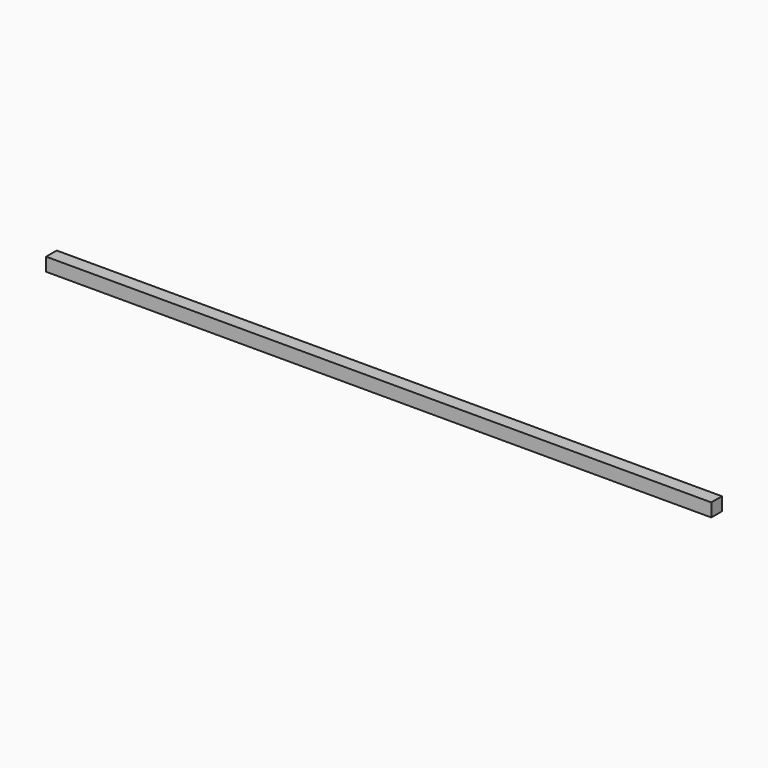
from build123d import *

# Parameters (mm, degrees)
BOX_W     = 100
BOX_H     = 2
BOX_DEPTH = 2


with BuildPart() as part:
    # Box → Box (new body)
    with BuildSketch(Plane.XY):
        with Locations((50, 1)):
            Rectangle(BOX_W, BOX_H)
    extrude(amount=BOX_DEPTH)


solid = part.part
